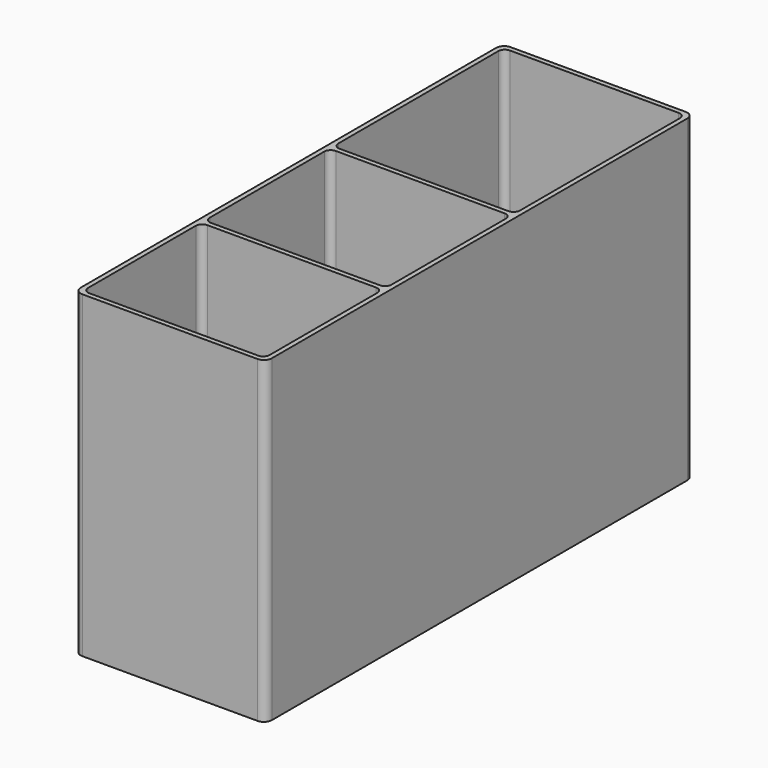
from build123d import *

# Parameters (mm, degrees)
F0_W     = 60
F0_H     = 168
F1_DEPTH = 100
F2_T     = -1.5
F3_W     = 57
F3_H     = 1.5
F4_DEPTH = 98.5
F5_R     = 2
F6_R     = 2.5


with BuildPart() as f1:
    # F0 (on Top) → F1 (new body)
    with BuildSketch(Plane.XY):
        Rectangle(F0_W, F0_H)
    extrude(amount=F1_DEPTH)

    # F2
    f2_openings = [f1.faces().sort_by_distance(p)[0] for p in [
        (0, 0, 100),
    ]]
    offset(amount=F2_T, openings=f2_openings)

    # F3 (on face) → F4 (join, through all)
    with BuildSketch(Plane.XY.offset(1.5)):
        with Locations((0, 14.9535381934)):
            Rectangle(F3_W, F3_H)
        with Locations((0, -35.4550533295)):
            Rectangle(F3_W, F3_H)
    extrude(amount=F4_DEPTH)

    # F5
    f5_edges = [f1.edges().sort_by_distance(p)[0] for p in [
        (-28.5, -82.5, 50.75),
        (-28.5, 14.203538, 50.75),
        (-28.5, 82.5, 50.75),
        (28.5, 82.5, 50.75),
        (28.5, 15.703538, 50.75),
        (28.5, -82.5, 50.75),
        (28.5, 14.203538, 50.75),
        (-28.5, 15.703538, 50.75),
        (-28.5, -36.205053, 50.75),
        (-28.5, -34.705053, 50.75),
        (28.5, -34.705053, 50.75),
        (28.5, -36.205053, 50.75),
    ]]
    fillet(f5_edges, radius=F5_R)

    # F6
    f6_edges = [f1.edges().sort_by_distance(p)[0] for p in [
        (30, -84, 50),
        (-30, -84, 50),
        (30, 84, 50),
        (-30, 84, 50),
    ]]
    fillet(f6_edges, radius=F6_R)


solid = f1.part
